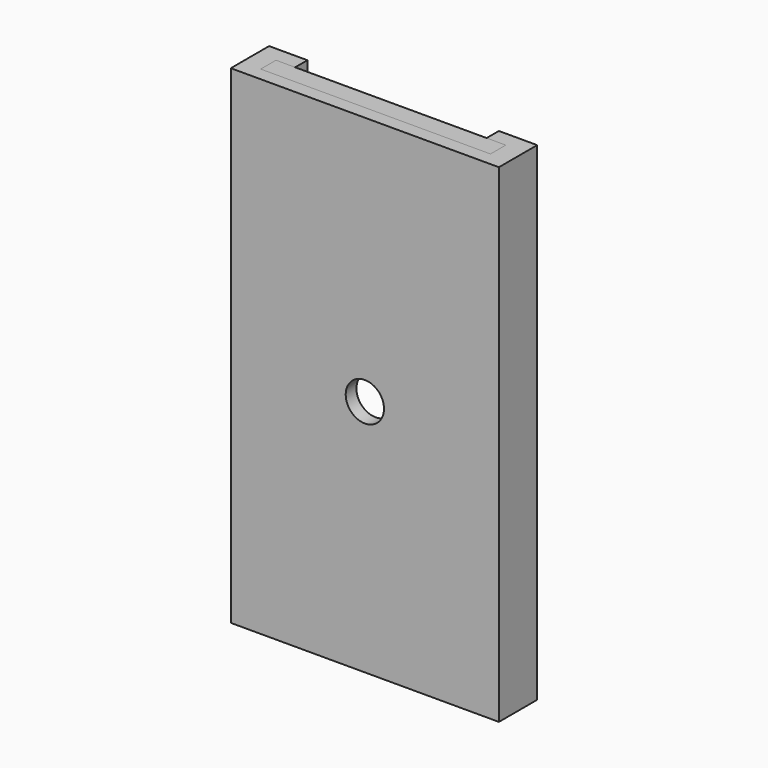
from build123d import *

# Parameters (mm, degrees)
F1_DEPTH = 255
F2_R     = 10
F3_DEPTH = 12
F5_DEPTH = 50
F7_DEPTH = 50


with BuildPart() as f1:
    # F0 (on Top) → F1 (new body)
    with BuildSketch(Plane.XY):
        Polygon((-70, 0), (0, 0), (70, 0), (70, 25), (50, 25), (50, 17), (60, 17), (60, 7), (0, 7), (-60, 7), (-60, 17), (-50, 17), (-50, 25), (-70, 25), align=None)
        Polygon((-70, 0), (0, 0), (70, 0), (70, 25), (50, 25), (50, 17), (60, 17), (60, 7), (0, 7), (-60, 7), (-60, 17), (-50, 17), (-50, 25), (-70, 25), align=None)
    extrude(amount=F1_DEPTH)

    # F2 (on face) → F3 (cut)
    with BuildSketch(Plane(origin=(0, 7, 0), x_dir=(-1, 0, 0), z_dir=(0, 1, 0))):
        with Locations((0, 124.4391358025)):
            Circle(F2_R)
    extrude(amount=-F3_DEPTH, mode=Mode.SUBTRACT)


with BuildPart() as f5:
    # F4 (on face) → F5 (new body)
    with BuildSketch(Plane.XY.offset(255)):
        Polygon((50, 17), (-50, 17), (-60, 17), (-60, 7), (60, 7), (60, 17), align=None)
    extrude(amount=-F5_DEPTH)


with BuildPart() as f7:
    # F6 (on face) → F7 (new body)
    with BuildSketch(Plane(origin=(0, 0, 0), x_dir=(1, 0, 0), z_dir=(0, 0, -1))):
        Polygon((60, -7), (-60, -7), (-60, -17), (-50, -17), (50, -17), (60, -17), align=None)
    extrude(amount=-F7_DEPTH)


solid = Compound([f1.part, f5.part, f7.part])
